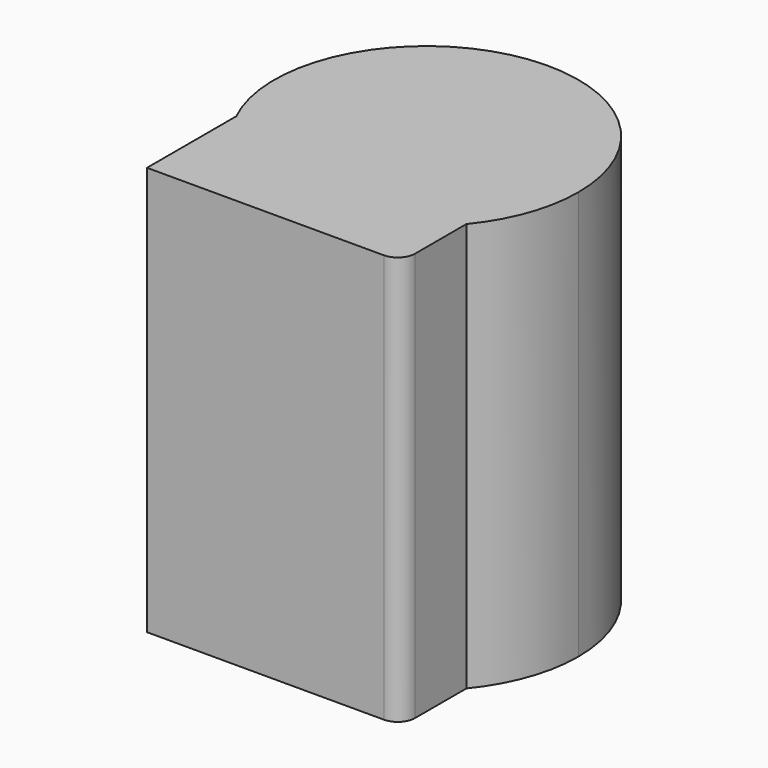
from build123d import *

# Parameters (mm, degrees)
F1_DEPTH = 119.888
F2_R     = 5.08


with BuildPart() as f1:
    # F0 (on Top) → F1 (new body)
    with BuildSketch(Plane.XY):
        with BuildLine():
            Line((0, -19.529681), (0, 0))
            Line((0, 0), (74.540958, 0))
            Line((74.540958, 0), (74.540958, -28.357976))
            ThreePointArc((74.540958, -28.357976), (82.094388, -15.063883), (84.714819, 0))
            ThreePointArc((84.714819, 0), (30.085314, 43.468405), (0, -19.529681))
        make_face()
        with BuildLine():
            Line((74.540958, 0), (0, 0))
            Line((0, 0), (0, -19.529681))
            ThreePointArc((0, -19.529681), (34.859712, -44.298934), (74.540958, -28.357976))
            Line((74.540958, -28.357976), (74.540958, 0))
        make_face()
        with BuildLine():
            ThreePointArc((74.540958, -28.357976), (34.859712, -44.298934), (0, -19.529681))
            Line((0, -19.529681), (0, -52.259699))
            Line((0, -52.259699), (74.540958, -52.259699))
            Line((74.540958, -52.259699), (74.540958, -28.357976))
        make_face()
    extrude(amount=F1_DEPTH)

    # F2
    f2_edges = [f1.edges().sort_by_distance(p)[0] for p in [
        (74.540958, -52.259699, 59.944),
    ]]
    fillet(f2_edges, radius=F2_R)


solid = f1.part
